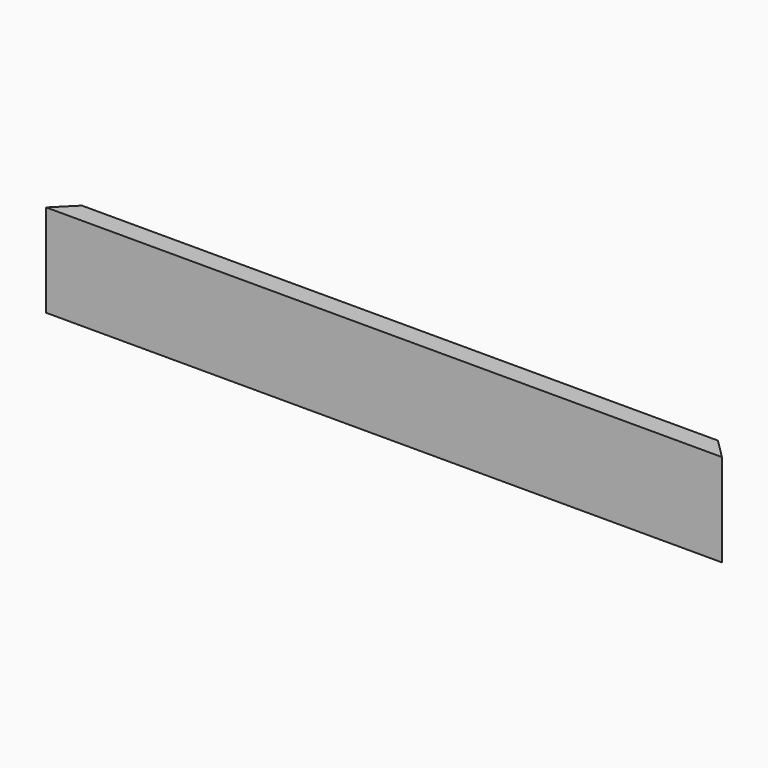
from build123d import *

# Parameters (mm, degrees)
F0_W     = 647.7
F0_H     = 88.9
F1_DEPTH = 19.05
F3_DEPTH = 127
F5_DEPTH = 127


with BuildPart() as f1:
    # F0 (on Front) → F1 (new body)
    with BuildSketch(Plane.XZ):
        with Locations((-323.85, 44.45)):
            Rectangle(F0_W, F0_H)
    extrude(amount=F1_DEPTH)

    # F2 (on face) → F3 (cut)
    with BuildSketch(Plane.XY.offset(88.9)):
        Polygon((-647.7, 0), (-647.7, -19.05), (-628.65, 0), align=None)
    extrude(amount=-F3_DEPTH, mode=Mode.SUBTRACT)

    # F4 (on face) → F5 (cut)
    with BuildSketch(Plane.XY.offset(88.9)):
        Polygon((-19.05, 0), (0, -19.05), (0, 0), align=None)
    extrude(amount=-F5_DEPTH, mode=Mode.SUBTRACT)


solid = f1.part
